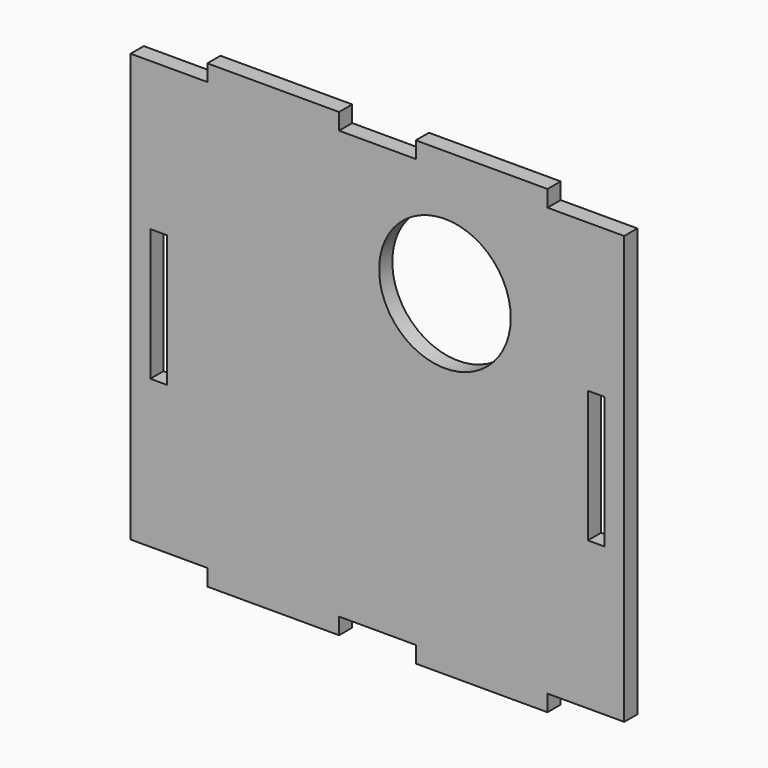
from build123d import *

# Parameters (mm, degrees)
F0_W     = 3.2004
F0_H     = 25.4254
F0_R     = 12.7
F0_W_2   = 25.4254
F0_H_2   = 3.175
F1_DEPTH = 3.175


with BuildPart() as f1:
    # F0 (on Front) → F1 (new body)
    with BuildSketch(Plane.XZ):
        Polygon((-80.432293, 34.807234), (-95.230333, 34.807234), (-95.230333, -47.742766), (-80.432293, -47.742766), (-55.006893, -47.742766), (-40.206313, -47.742766), (-14.780913, -47.742766), (0.019667, -47.742766), (0.019667, 34.807234), (-14.780913, 34.807234), (-40.206313, 34.807234), (-55.006893, 34.807234), align=None)
        with Locations((-89.820133, -6.467766)):
            Rectangle(F0_W, F0_H, mode=Mode.SUBTRACT)
        with Locations((-34.574412, 13.770163)):
            Circle(F0_R, mode=Mode.SUBTRACT)
        with Locations((-5.390533, -6.467766)):
            Rectangle(F0_W, F0_H, mode=Mode.SUBTRACT)
        with Locations((-67.719593, 36.394734)):
            Rectangle(F0_W_2, F0_H_2)
        with Locations((-27.493613, 36.394734)):
            Rectangle(F0_W_2, F0_H_2)
        with Locations((-27.493613, -49.330266)):
            Rectangle(F0_W_2, F0_H_2)
        with Locations((-67.719593, -49.330266)):
            Rectangle(F0_W_2, F0_H_2)
    extrude(amount=F1_DEPTH)


solid = f1.part
